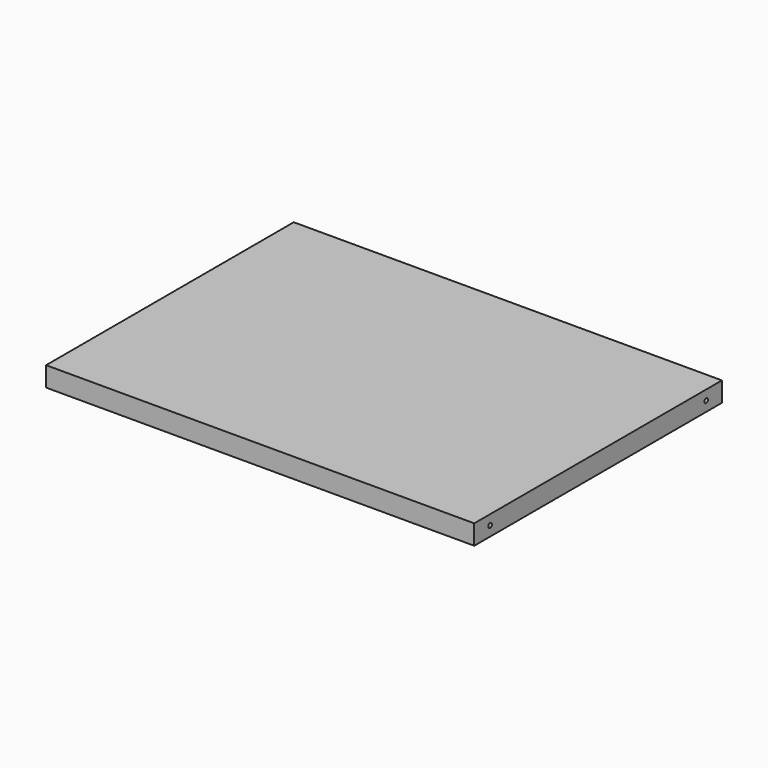
from build123d import *

# Parameters (mm, degrees)
F0_W           = 650
F0_H           = 470
F1_DEPTH       = 30
F4_D           = 6.8
F4_DEPTH       = 20
F4_TIP         = 2.0429261047
F4_ON_F3_D     = 6.8
F4_ON_F3_DEPTH = 20
F4_ON_F3_TIP   = 2.0429261047


with BuildPart() as f1:
    # F0 (on Top) → F1 (new body)
    with BuildSketch(Plane.XY):
        Rectangle(F0_W, F0_H)
    extrude(amount=F1_DEPTH)

    # F4
    with Locations(Plane.YZ.offset(325)):
        with Locations((-205, 15), (205, 15)):
            Hole(F4_D / 2, depth=F4_DEPTH)
            with Locations((0, 0, -(F4_DEPTH + F4_TIP / 2))):  # 118° drill point
                Cone(0, F4_D / 2, F4_TIP, mode=Mode.SUBTRACT)

    # F4 on F3
    with Locations(Plane(origin=(-325, 0, 0), x_dir=(0, -1, 0), z_dir=(-1, 0, 0))):
        with Locations((-205, 15), (205, 15)):
            Hole(F4_ON_F3_D / 2, depth=F4_ON_F3_DEPTH)
            with Locations((0, 0, -(F4_ON_F3_DEPTH + F4_ON_F3_TIP / 2))):  # 118° drill point
                Cone(0, F4_ON_F3_D / 2, F4_ON_F3_TIP, mode=Mode.SUBTRACT)


solid = f1.part
